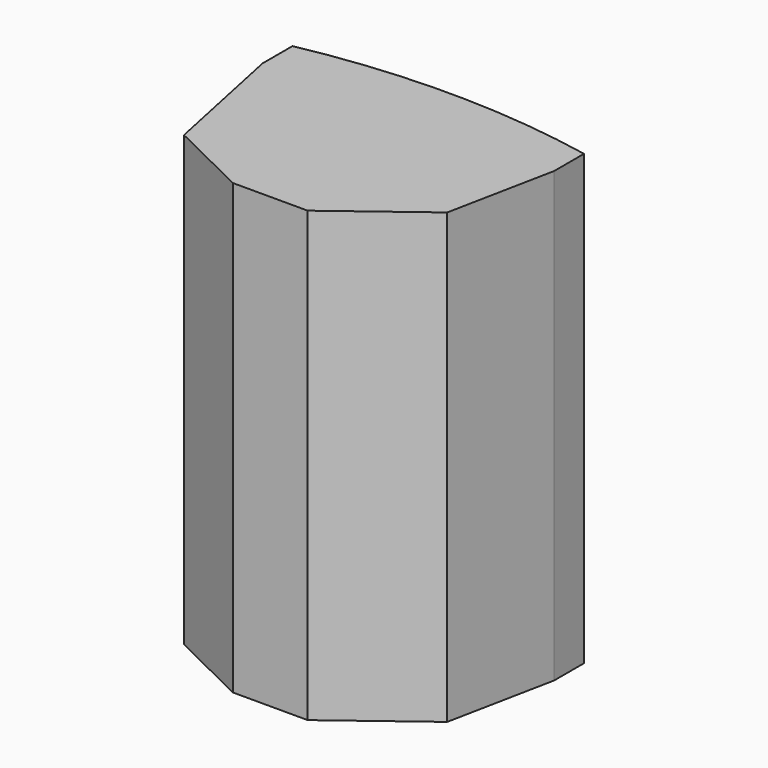
from build123d import *

# Parameters (mm, degrees)
F1_DEPTH = 300


with BuildPart() as f1:
    # F0 (on Top) → F1 (new body, symmetric)
    with BuildSketch(Plane.XY):
        with BuildLine():
            Line((195, -50), (195, 0))
            ThreePointArc((195, 0), (0, 19.196758), (-195, 0))
            Line((-195, 0), (-195, -50))
            Line((-195, -50), (-157.791363, -227.93321))
            Line((-157.791363, -227.93321), (-50, -280.803242))
            Line((-50, -280.803242), (50, -280.803242))
            Line((50, -280.803242), (166.336913, -192.941756))
            Line((166.336913, -192.941756), (195, -50))
        make_face()
    extrude(amount=F1_DEPTH, both=True)


solid = f1.part
